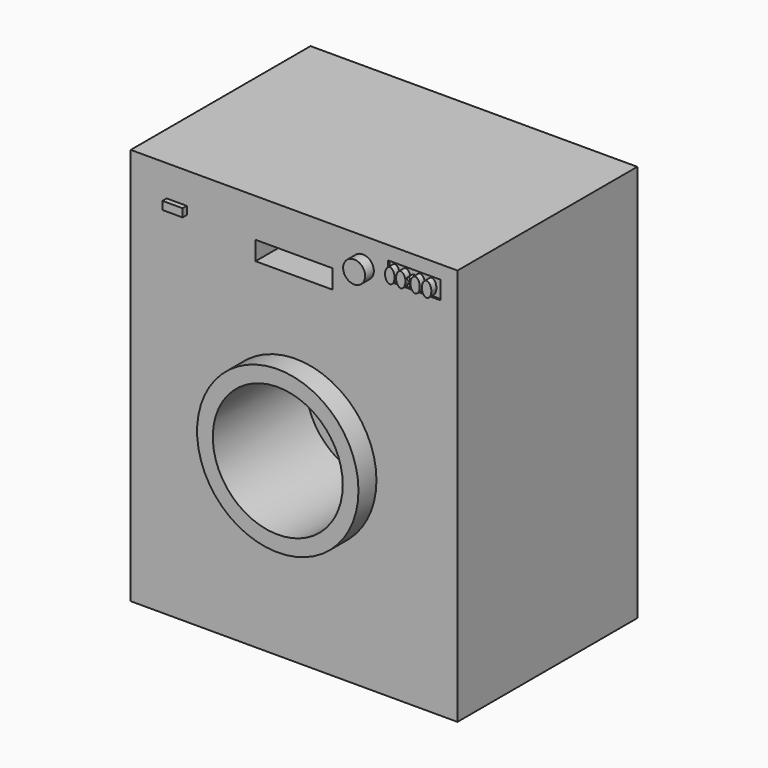
from build123d import *

# Parameters (mm, degrees)
F0_W      = 87.2437804937
F0_H      = 106.0954518616
F0_W_2    = 20.6053154543
F0_H_2    = 5.0417296588
F1_DEPTH  = 60
F2_R      = 2.9428750277
F3_DEPTH  = 2.9
F4_W      = 13.8082224876
F4_H      = 4.3150708079
F5_DEPTH  = 0.7
F6_W      = 12.7294529229
F6_H      = 4.7465749085
F7_DEPTH  = 1.8
F8_W      = 20.6053154543
F8_H      = 5.0417296588
F9_DEPTH  = 5.2
F8_W_2    = 14.0079837292
F8_H_2    = 4.8489198089
F10_DEPTH = 0.5
F11_W     = 5.3876843303
F11_H     = 2.1550767124
F12_DEPTH = 1.4
F13_R     = 17.3499194153
F14_DEPTH = 25
F13_R_2   = 21.5456901686
F15_DEPTH = 6
F16_W     = 20.6053154543
F16_H     = 5.0417296588
F17_DEPTH = 49.5
F19_DEPTH = 1.7
F18_R     = 0.4009979828
F18_R_2   = 0.3943904749


with BuildPart() as f1:
    # F0 (on Front) → F1 (new body)
    with BuildSketch(Plane.XZ):
        with Locations((-0.4384107888, 3.2880846411)):
            Rectangle(F0_W, F0_H)
        with Locations((-0.4384112544, 43.5122866184)):
            Rectangle(F0_W_2, F0_H_2, mode=Mode.SUBTRACT)
    extrude(amount=F1_DEPTH)

    # F2 (on face) → F3 (join)
    with BuildSketch(Plane.XZ.offset(60)):
        with Locations((17.9075337946, 48.9760264754)):
            Circle(F2_R)
    extrude(amount=F3_DEPTH)

    # F4 (on face) → F5 (join)
    with BuildSketch(Plane.XZ.offset(60)):
        with Locations((31.2842493877, 50.4863038659)):
            Rectangle(F4_W, F4_H)
    extrude(amount=-F5_DEPTH)

    # F6 (on face) → F7 (join)
    with BuildSketch(Plane.XZ.offset(60)):
        with Locations((30.7448646054, 50.2705518156)):
            Rectangle(F6_W, F6_H)
    extrude(amount=-F7_DEPTH)

    # F8 (on face) → F9 (cut)
    with BuildSketch(Plane.XZ.offset(60)):
        with Locations((-0.4384112544, 43.5122866184)):
            Rectangle(F8_W, F8_H)
    extrude(amount=-F9_DEPTH, mode=Mode.SUBTRACT)

    # F8 (on face) → F10 (cut)
    with BuildSketch(Plane.XZ.offset(60)):
        with Locations((31.6077554598, 50.285063684)):
            Rectangle(F8_W_2, F8_H_2)
    extrude(amount=-F10_DEPTH, mode=Mode.SUBTRACT)

    # F11 (on face) → F12 (join)
    with BuildSketch(Plane.XZ.offset(60)):
        with Locations((-31.7873442546, 46.9626579434)):
            Rectangle(F11_W, F11_H)
    extrude(amount=F12_DEPTH)

    # F13 (on face) → F14 (cut)
    with BuildSketch(Plane.XZ.offset(60)):
        Circle(F13_R)
    extrude(amount=-F14_DEPTH, mode=Mode.SUBTRACT)

    # F13 (on face) → F15 (join)
    with BuildSketch(Plane.XZ.offset(60)):
        Circle(F13_R_2)
        Circle(F13_R, mode=Mode.SUBTRACT)
    extrude(amount=F15_DEPTH)

    # F16 (on face) → F17 (join)
    with BuildSketch(Plane(origin=(0, 0, 0), x_dir=(-1, 0, 0), z_dir=(0, 1, 0))):
        with Locations((0.4384112544, 43.5122866184)):
            Rectangle(F16_W, F16_H)
    extrude(amount=-F17_DEPTH)


with BuildPart() as f19:
    # F18 (on face) → F19 (new body)
    with BuildSketch(Plane.XZ.offset(60)):
        with BuildLine():
            add(Edge.make_bspline(
                [(26.4675728977, 52.3777563572), (24.279883543, 52.3777563572), (25.3737282203, 49.3777563572), (26.4675728977, 46.3777563572), (27.561417575, 49.3777563572), (28.6552622524, 52.3777563572), (26.4675728977, 52.3777563572)],
                knots=[0, 0, 0, 2.0943951024, 2.0943951024, 4.1887902048, 4.1887902048, 6.2831853072, 6.2831853072, 6.2831853072], degree=2, weights=[1, 0.5, 1, 0.5, 1, 0.5, 1]))
        make_face()
    extrude(amount=F19_DEPTH)


with BuildPart() as f19b:
    # F18 (on face) → F19, piece 2 (new body)
    with BuildSketch(Plane.XZ.offset(60)):
        with BuildLine():
            add(Edge.make_bspline(
                [(29.393510893, 52.3787215352), (27.2396173202, 52.3787215352), (28.3165641066, 49.3772737682), (29.393510893, 46.3758260012), (30.4704576794, 49.3772737682), (31.5474044657, 52.3787215352), (29.393510893, 52.3787215352)],
                knots=[0, 0, 0, 2.0943951024, 2.0943951024, 4.1887902048, 4.1887902048, 6.2831853072, 6.2831853072, 6.2831853072], degree=2, weights=[1, 0.5, 1, 0.5, 1, 0.5, 1]))
        make_face()
    extrude(amount=F19_DEPTH)


with BuildPart() as f19c:
    # F18 (on face) → F19, piece 3 (new body)
    with BuildSketch(Plane.XZ.offset(60)):
        with Locations((31.479422003, 51.2366630137)):
            Circle(F18_R)
    extrude(amount=F19_DEPTH)


with BuildPart() as f19d:
    # F18 (on face) → F19, piece 4 (new body)
    with BuildSketch(Plane.XZ.offset(60)):
        with Locations((31.479422003, 49.6981851757)):
            Circle(F18_R_2)
    extrude(amount=F19_DEPTH)


with BuildPart() as f19e:
    # F18 (on face) → F19, piece 5 (new body)
    with BuildSketch(Plane.XZ.offset(60)):
        with BuildLine():
            add(Edge.make_bspline(
                [(33.2255475223, 52.3787215352), (31.0842078806, 52.3787215352), (32.1548777014, 49.3772737682), (33.2255475223, 46.3758260012), (34.2962173432, 49.3772737682), (35.3668871641, 52.3787215352), (33.2255475223, 52.3787215352)],
                knots=[0, 0, 0, 2.0943951024, 2.0943951024, 4.1887902048, 4.1887902048, 6.2831853072, 6.2831853072, 6.2831853072], degree=2, weights=[1, 0.5, 1, 0.5, 1, 0.5, 1]))
        make_face()
    extrude(amount=F19_DEPTH)


with BuildPart() as f19f:
    # F18 (on face) → F19, piece 6 (new body)
    with BuildSketch(Plane.XZ.offset(60)):
        with BuildLine():
            add(Edge.make_bspline(
                [(36.2930633128, 52.3787215352), (34.1097765359, 52.3787215352), (35.2014199243, 49.3772737682), (36.2930633128, 46.3758260012), (37.3847067012, 49.3772737682), (38.4763500896, 52.3787215352), (36.2930633128, 52.3787215352)],
                knots=[0, 0, 0, 2.0943951024, 2.0943951024, 4.1887902048, 4.1887902048, 6.2831853072, 6.2831853072, 6.2831853072], degree=2, weights=[1, 0.5, 1, 0.5, 1, 0.5, 1]))
        make_face()
    extrude(amount=F19_DEPTH)


solid = Compound([f1.part, f19.part, f19b.part, f19c.part, f19d.part, f19e.part, f19f.part])
